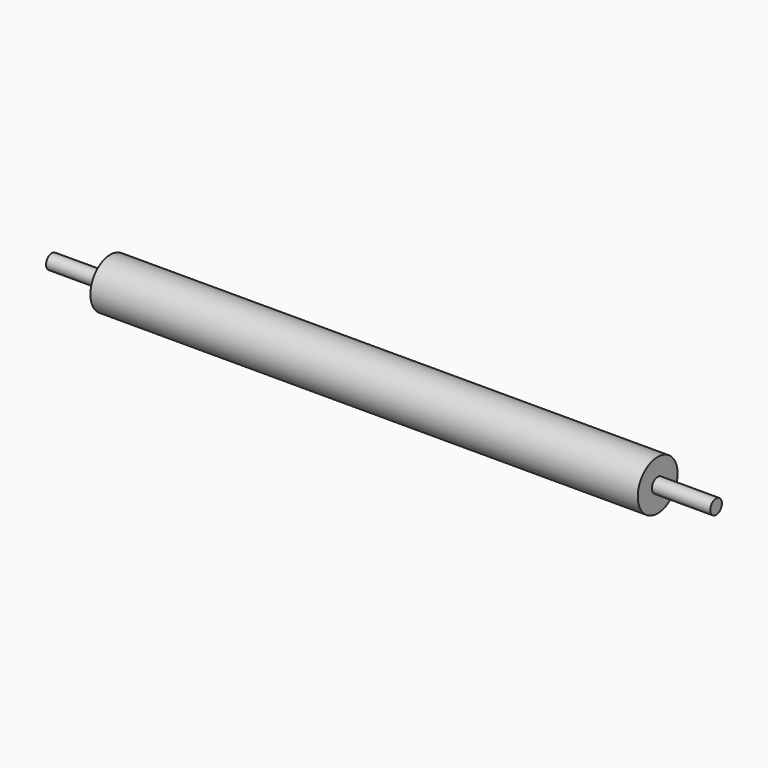
from build123d import *


with BuildPart() as part:
    # roll_75_sketch → Revolution (revolve)
    with BuildSketch(Plane.XZ):
        Polygon((0, 34.15), (375, 34.15), (375, 10), (455, 10), (455, 0), (0, 0), align=None)
    revolution = revolve(axis=Axis((0, 0, 0), (1, 0, 0)))

    # Mirrored: Revolution across roll_75_sketch V_Axis
    add(revolution.mirror(Plane(origin=(0, 0, 0), x_dir=(0, -1, 0), z_dir=(1, 0, 0))))


solid = part.part
